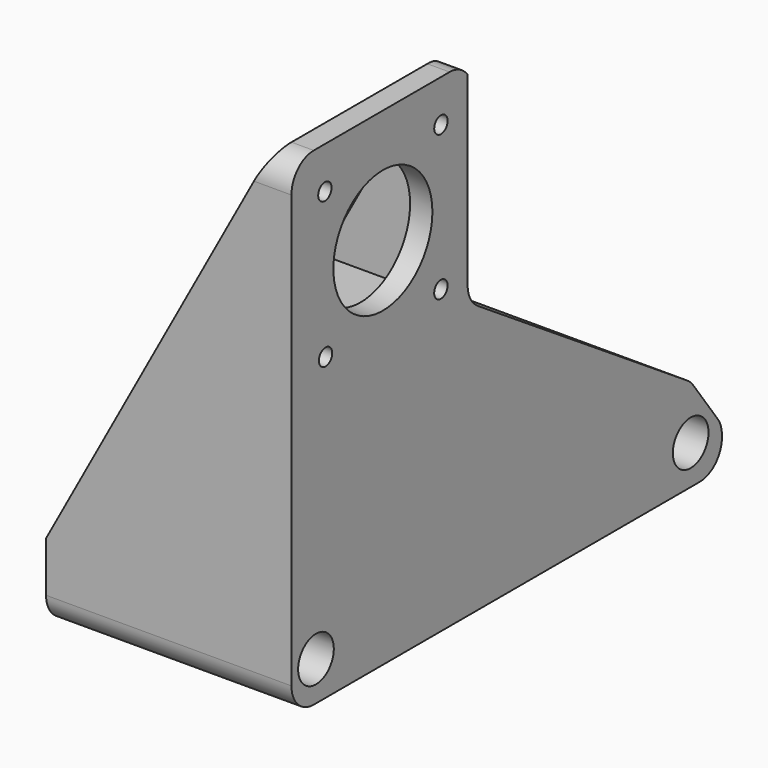
from build123d import *

# Parameters (mm, degrees)
F0_R     = 4
F0_W     = 35
F0_H     = 35
F0_R_2   = 1.5
F0_R_3   = 11.1
F1_DEPTH = 4
F2_DEPTH = 40
F4_DEPTH = 96.501
F5_R     = 5
F7_DEPTH = 44.001
F9_DEPTH = 44.001
F10_R    = 5


with BuildPart() as f1:
    # F0 (on Right) → F1 (new body)
    with BuildSketch(Plane.YZ):
        Polygon((-51.5, 80.5), (-89.5, 80.5), (-89.5, -7), (7, -7), (7, 0), align=None)
        with Locations((-84, 0)):
            Circle(F0_R, mode=Mode.SUBTRACT)
        Circle(F0_R, mode=Mode.SUBTRACT)
        with Locations((-69, 60)):
            Rectangle(F0_W, F0_H, mode=Mode.SUBTRACT)
        with Locations((-69, 60)):
            Rectangle(F0_W, F0_H)
        with Locations((-81.8535834551, 46.8301847577)):
            Circle(F0_R_2, mode=Mode.SUBTRACT)
        with Locations((-56, 47)):
            Circle(F0_R_2, mode=Mode.SUBTRACT)
        with Locations((-69, 60)):
            Circle(F0_R_3, mode=Mode.SUBTRACT)
        with Locations((-82, 73)):
            Circle(F0_R_2, mode=Mode.SUBTRACT)
        with Locations((-55.9914708138, 72.9807242751)):
            Circle(F0_R_2, mode=Mode.SUBTRACT)
    extrude(amount=F1_DEPTH)

    # F0 (on Right) → F2 (join)
    with BuildSketch(Plane.YZ):
        Polygon((-51.5, 80.5), (-89.5, 80.5), (-89.5, -7), (7, -7), (7, 0), align=None)
        with Locations((-84, 0)):
            Circle(F0_R, mode=Mode.SUBTRACT)
        Circle(F0_R, mode=Mode.SUBTRACT)
        with Locations((-69, 60)):
            Rectangle(F0_W, F0_H, mode=Mode.SUBTRACT)
    extrude(amount=-F2_DEPTH)

    # F3 (on face) → F4 (cut, through all)
    with BuildSketch(Plane.XZ.offset(89.5)):
        Polygon((-40, 7), (0, 80.5), (-40, 80.5), align=None)
    extrude(amount=-F4_DEPTH, mode=Mode.SUBTRACT)

    # F5
    f5_edges = [f1.edges().sort_by_distance(p)[0] for p in [
        (-18, -89.5, -7),
        (-18, 7, -7),
        (-18, 7, 0),
        (2, -89.5, 80.5),
        (2, -51.5, 80.5),
    ]]
    fillet(f5_edges, radius=F5_R)

    # F6 (on face) → F7 (cut, through all)
    with BuildSketch(Plane.YZ.offset(4)):
        Polygon((-23.8850931677, 42.5), (-50.0025195443, 78.4393645012), (-50.0025195443, 42.5), align=None)
    extrude(amount=-F7_DEPTH, mode=Mode.SUBTRACT)

    # F8 (on face) → F9 (cut, through all)
    with BuildSketch(Plane.YZ.offset(4)):
        Polygon((0, 9.6324786325), (-23.8850931677, 42.5), (-50.0025195443, 42.5), align=None)
    extrude(amount=-F9_DEPTH, mode=Mode.SUBTRACT)

    # F10
    f10_edges = [f1.edges().sort_by_distance(p)[0] for p in [
        (-8.340136, -50.00252, 42.5),
        (-17.283679, 0, 9.632479),
    ]]
    fillet(f10_edges, radius=F10_R)


solid = f1.part
